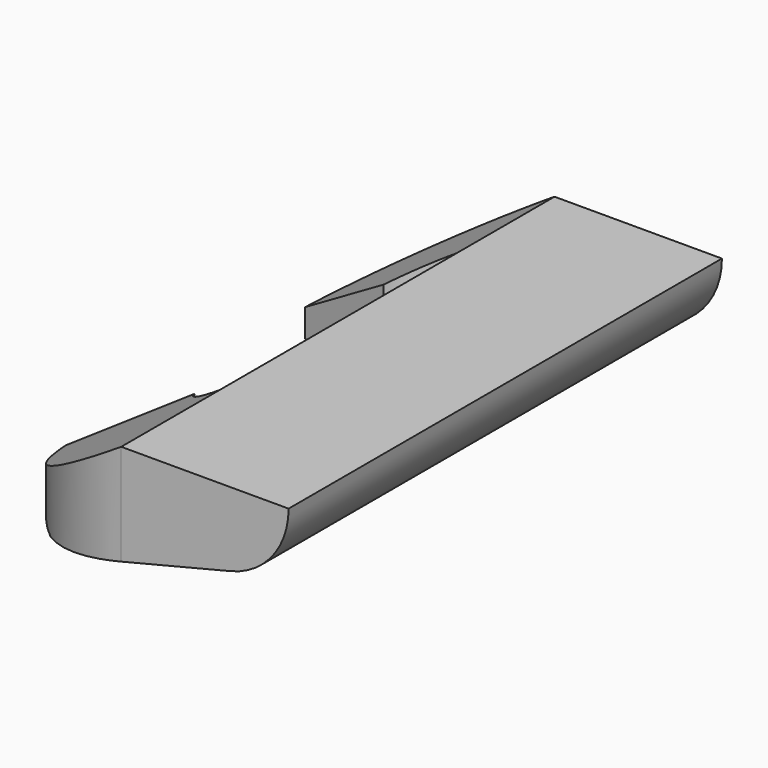
from build123d import *

# Parameters (mm, degrees)
PAD046_DEPTH    = 55
POCKET064_DEPTH = 147.675197


with BuildPart() as part:
    # Sketch126 → Pad046 (new body)
    with BuildSketch(Plane.XZ.offset(-27.5)):
        with BuildLine():
            ThreePointArc((-5.864892, -58.75), (-1.6403, -56.01044), (0, -51.25))
            Line((0, -51.25), (-17, -51.25))
            Line((-17, -51.25), (-36.926579, -64))
            Line((-36.926579, -64), (-27, -64))
            Line((-27, -64), (-5.864892, -58.75))
        make_face()
    extrude(amount=PAD046_DEPTH)

    # Sketch127 (on Face3 of Pad046) → Pocket064 (cut, through all)
    with BuildSketch(Plane(origin=(0, 0, -51.25), x_dir=(0, -1, 0), z_dir=(0, 0, 1))):
        with BuildLine():
            Line((-27.5, -17), (-27.5, -43))
            Line((-27.5, -43), (0, -43))
            Line((0, -43), (0, -17))
            Line((0, -17), (-15.050161, -17))
            ThreePointArc((-15.050161, -17), (-14.226455, -19.908295), (-12, -21.952695))
            Line((-12, -21.952695), (-15.2, -32.476953))
            ThreePointArc((-27.5, -17), (-24.05052, -26.884661), (-15.2, -32.476953))
        make_face()
    pocket064 = extrude(amount=-POCKET064_DEPTH, mode=Mode.SUBTRACT)

    # Mirrored003: Pocket064 across Sketch127 V_Axis
    add(pocket064.mirror(Plane(origin=(0, 0, -51.25), x_dir=(0, 0, 1), z_dir=(0, -1, 0))), mode=Mode.SUBTRACT)


with BuildPart() as part_1:
    # Body017 placement: moved
    add(part.part.moved(Location((32, 0, 0))))


solid = part_1.part
